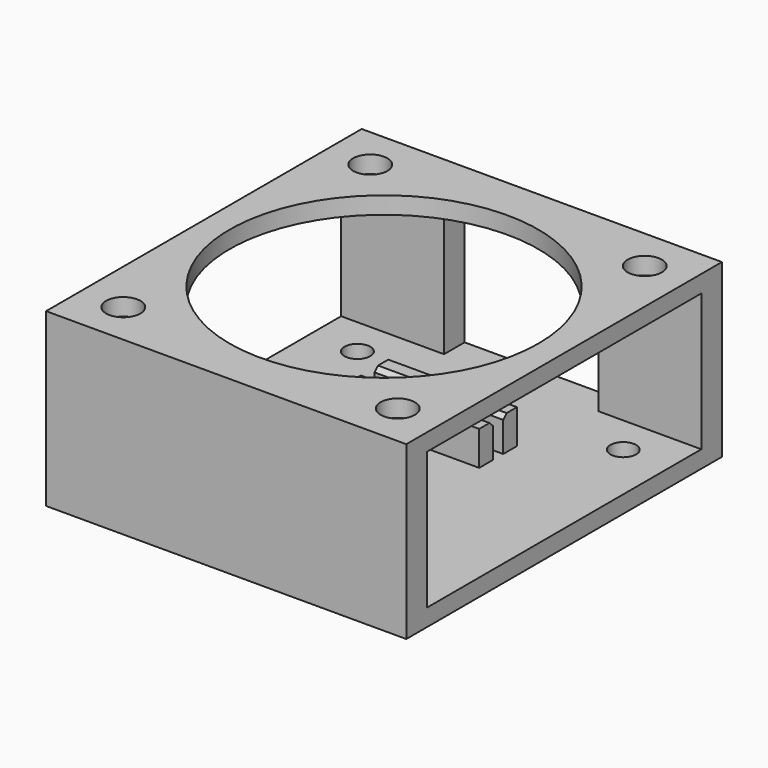
from build123d import *

# Parameters (mm, degrees)
F0_W     = 42
F0_H     = 46
F0_R     = 1.5
F1_DEPTH = 2
F2_W     = 12
F2_H     = 3
F2_W_2   = 42
F3_DEPTH = 16
F4_W     = 42
F4_H     = 46
F4_R     = 2
F4_R_2   = 18
F5_DEPTH = 2
F6_W     = 15
F6_H     = 2
F7_DEPTH = 4
F8_SIZE  = 0.5


with BuildPart() as f1:
    # F0 (on Top) → F1 (new body)
    with BuildSketch(Plane.XY):
        Rectangle(F0_W, F0_H)
        with Locations((-15.5, -15.5)):
            Circle(F0_R, mode=Mode.SUBTRACT)
        with Locations((15.5, -15.5)):
            Circle(F0_R, mode=Mode.SUBTRACT)
        with Locations((-15.5, 15.5)):
            Circle(F0_R, mode=Mode.SUBTRACT)
        with Locations((15.5, 15.5)):
            Circle(F0_R, mode=Mode.SUBTRACT)
    extrude(amount=F1_DEPTH)

    # F2 (on face) → F3 (join)
    with BuildSketch(Plane.XY.offset(2)):
        with Locations((15, 21.5)):
            Rectangle(F2_W, F2_H)
        with Locations((-15, 21.5)):
            Rectangle(F2_W, F2_H)
        with Locations((0, -21.5)):
            Rectangle(F2_W_2, F2_H)
    extrude(amount=F3_DEPTH)

    # F4 (on face) → F5 (join)
    with BuildSketch(Plane.XY.offset(18)):
        Rectangle(F4_W, F4_H)
        with Locations((-16, -18)):
            Circle(F4_R, mode=Mode.SUBTRACT)
        with Locations((16, -18)):
            Circle(F4_R, mode=Mode.SUBTRACT)
        with Locations((-16, 18)):
            Circle(F4_R, mode=Mode.SUBTRACT)
        Circle(F4_R_2, mode=Mode.SUBTRACT)
        with Locations((16, 18)):
            Circle(F4_R, mode=Mode.SUBTRACT)
    extrude(amount=F5_DEPTH)

    # F6 (on face) → F7 (join)
    with BuildSketch(Plane.XY.offset(2)):
        with Locations((0, 9)):
            Rectangle(F6_W, F6_H)
        with Locations((0, 5.5)):
            Rectangle(F6_W, F6_H)
    extrude(amount=F7_DEPTH)

    # F8
    f8_edges = [f1.edges().sort_by_distance(p)[0] for p in [
        (0, 8, 6),
        (0, 6.5, 6),
    ]]
    chamfer(f8_edges, length=F8_SIZE)


solid = f1.part
